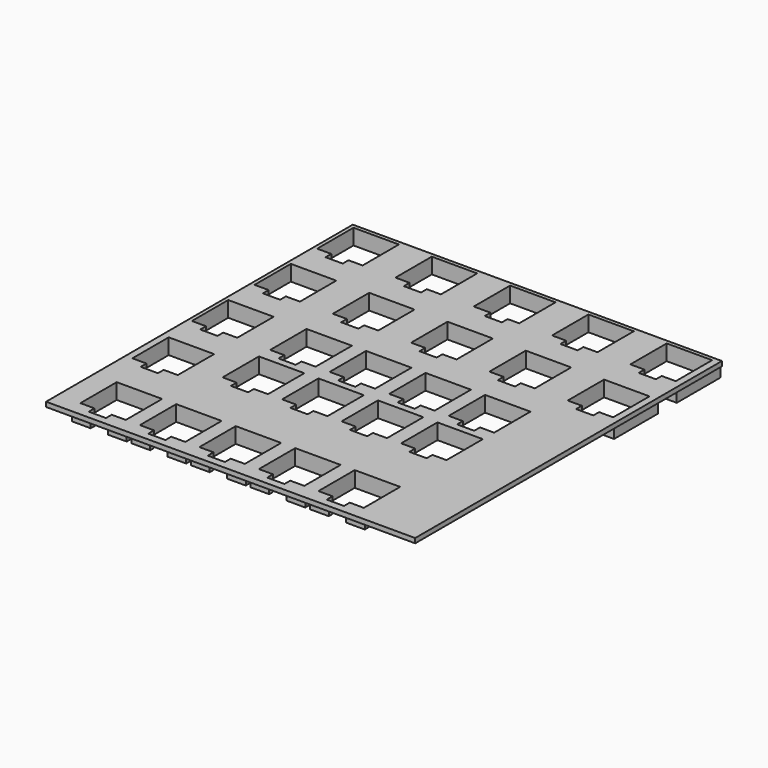
from build123d import *

# Parameters (mm, degrees)
SKETCH002_W     = 117.848
SKETCH002_H     = 122.417
PAD_DEPTH       = 1.5
SKETCH013_W     = 17.5
SKETCH013_H     = 17.5
PAD001_DEPTH    = 3.5
SKETCH008_W     = 14.5
SKETCH008_H     = 14.5
POCKET_DEPTH    = 5
SKETCH010_W     = 5.5
SKETCH010_H     = 5.5
POCKET001_DEPTH = 5


with BuildPart() as part:
    # Sketch002 → Pad (new body)
    with BuildSketch(Plane.XY):
        with Locations((210.076, -93.3415)):
            Rectangle(SKETCH002_W, SKETCH002_H)
    extrude(amount=PAD_DEPTH)

    # Sketch013 (on DatumPlane) → Pad001 (join)
    with BuildSketch(Plane(origin=(0, 0, 0), x_dir=(1, 0, 0), z_dir=(0, 0, -1))):
        with Locations((159.57, 40.57)):
            Rectangle(SKETCH013_W, SKETCH013_H)
        with Locations((184.57, 40.57)):
            Rectangle(SKETCH013_W, SKETCH013_H)
        with Locations((209.57, 40.57)):
            Rectangle(SKETCH013_W, SKETCH013_H)
        with Locations((234.57, 40.57)):
            Rectangle(SKETCH013_W, SKETCH013_H)
        with Locations((259.57, 40.57)):
            Rectangle(SKETCH013_W, SKETCH013_H)
        with Locations((159.57, 65.57)):
            Rectangle(SKETCH013_W, SKETCH013_H)
        with Locations((184.57, 65.57)):
            Rectangle(SKETCH013_W, SKETCH013_H)
        with Locations((209.57, 65.57)):
            Rectangle(SKETCH013_W, SKETCH013_H)
        with Locations((234.57, 65.57)):
            Rectangle(SKETCH013_W, SKETCH013_H)
        with Locations((259.57, 65.57)):
            Rectangle(SKETCH013_W, SKETCH013_H)
        with Locations((159.57, 90.57)):
            Rectangle(SKETCH013_W, SKETCH013_H)
        with Locations((184.57, 90.57)):
            Rectangle(SKETCH013_W, SKETCH013_H)
        with Locations((203.57, 90.57)):
            Rectangle(SKETCH013_W, SKETCH013_H)
        with Locations((222.57, 90.57)):
            Rectangle(SKETCH013_W, SKETCH013_H)
        with Locations((241.57, 90.57)):
            Rectangle(SKETCH013_W, SKETCH013_H)
        with Locations((160.57, 115.57)):
            Rectangle(SKETCH013_W, SKETCH013_H)
        with Locations((184.57, 109.57)):
            Rectangle(SKETCH013_W, SKETCH013_H)
        with Locations((203.57, 109.57)):
            Rectangle(SKETCH013_W, SKETCH013_H)
        with Locations((222.57, 109.57)):
            Rectangle(SKETCH013_W, SKETCH013_H)
        with Locations((241.57, 109.57)):
            Rectangle(SKETCH013_W, SKETCH013_H)
        with Locations((165.57, 142.57)):
            Rectangle(SKETCH013_W, SKETCH013_H)
        with Locations((184.57, 142.57)):
            Rectangle(SKETCH013_W, SKETCH013_H)
        with Locations((203.57, 142.57)):
            Rectangle(SKETCH013_W, SKETCH013_H)
        with Locations((222.57, 142.57)):
            Rectangle(SKETCH013_W, SKETCH013_H)
        with Locations((241.57, 142.57)):
            Rectangle(SKETCH013_W, SKETCH013_H)
    extrude(amount=PAD001_DEPTH)

    # Sketch008 (on DatumPlane) → Pocket (cut)
    with BuildSketch(Plane.XY.offset(1.5)):
        with Locations((159.57, -40.57)):
            Rectangle(SKETCH008_W, SKETCH008_H)
        with Locations((184.57, -40.57)):
            Rectangle(SKETCH008_W, SKETCH008_H)
        with Locations((209.57, -40.57)):
            Rectangle(SKETCH008_W, SKETCH008_H)
        with Locations((234.57, -40.57)):
            Rectangle(SKETCH008_W, SKETCH008_H)
        with Locations((259.57, -40.57)):
            Rectangle(SKETCH008_W, SKETCH008_H)
        with Locations((159.57, -65.57)):
            Rectangle(SKETCH008_W, SKETCH008_H)
        with Locations((184.57, -65.57)):
            Rectangle(SKETCH008_W, SKETCH008_H)
        with Locations((209.57, -65.57)):
            Rectangle(SKETCH008_W, SKETCH008_H)
        with Locations((234.57, -65.57)):
            Rectangle(SKETCH008_W, SKETCH008_H)
        with Locations((259.57, -65.57)):
            Rectangle(SKETCH008_W, SKETCH008_H)
        with Locations((159.57, -90.57)):
            Rectangle(SKETCH008_W, SKETCH008_H)
        with Locations((184.57, -90.57)):
            Rectangle(SKETCH008_W, SKETCH008_H)
        with Locations((203.57, -90.57)):
            Rectangle(SKETCH008_W, SKETCH008_H)
        with Locations((222.57, -90.57)):
            Rectangle(SKETCH008_W, SKETCH008_H)
        with Locations((241.57, -90.57)):
            Rectangle(SKETCH008_W, SKETCH008_H)
        with Locations((160.57, -115.57)):
            Rectangle(SKETCH008_W, SKETCH008_H)
        with Locations((184.57, -109.57)):
            Rectangle(SKETCH008_W, SKETCH008_H)
        with Locations((203.57, -109.57)):
            Rectangle(SKETCH008_W, SKETCH008_H)
        with Locations((222.57, -109.57)):
            Rectangle(SKETCH008_W, SKETCH008_H)
        with Locations((241.57, -109.57)):
            Rectangle(SKETCH008_W, SKETCH008_H)
        with Locations((165.57, -142.57)):
            Rectangle(SKETCH008_W, SKETCH008_H)
        with Locations((184.57, -142.57)):
            Rectangle(SKETCH008_W, SKETCH008_H)
        with Locations((203.57, -142.57)):
            Rectangle(SKETCH008_W, SKETCH008_H)
        with Locations((222.57, -142.57)):
            Rectangle(SKETCH008_W, SKETCH008_H)
        with Locations((241.57, -142.57)):
            Rectangle(SKETCH008_W, SKETCH008_H)
    extrude(amount=-POCKET_DEPTH, mode=Mode.SUBTRACT)

    # Sketch010 (on DatumPlane) → Pocket001 (cut)
    with BuildSketch(Plane.XY.offset(1.5)):
        with Locations((159.57, -47.37)):
            Rectangle(SKETCH010_W, SKETCH010_H)
        with Locations((184.57, -47.37)):
            Rectangle(SKETCH010_W, SKETCH010_H)
        with Locations((210.4, -47.37)):
            Rectangle(SKETCH010_W, SKETCH010_H)
        with Locations((234.57, -47.37)):
            Rectangle(SKETCH010_W, SKETCH010_H)
        with Locations((259.57, -47.37)):
            Rectangle(SKETCH010_W, SKETCH010_H)
        with Locations((159.57, -72.37)):
            Rectangle(SKETCH010_W, SKETCH010_H)
        with Locations((184.57, -72.37)):
            Rectangle(SKETCH010_W, SKETCH010_H)
        with Locations((209.57, -72.37)):
            Rectangle(SKETCH010_W, SKETCH010_H)
        with Locations((234.57, -72.37)):
            Rectangle(SKETCH010_W, SKETCH010_H)
        with Locations((259.57, -72.37)):
            Rectangle(SKETCH010_W, SKETCH010_H)
        with Locations((159.57, -97.37)):
            Rectangle(SKETCH010_W, SKETCH010_H)
        with Locations((184.57, -97.37)):
            Rectangle(SKETCH010_W, SKETCH010_H)
        with Locations((203.57, -97.37)):
            Rectangle(SKETCH010_W, SKETCH010_H)
        with Locations((222.57, -97.37)):
            Rectangle(SKETCH010_W, SKETCH010_H)
        with Locations((241.57, -97.37)):
            Rectangle(SKETCH010_W, SKETCH010_H)
        with Locations((160.57, -122.37)):
            Rectangle(SKETCH010_W, SKETCH010_H)
        with Locations((184.57, -116.37)):
            Rectangle(SKETCH010_W, SKETCH010_H)
        with Locations((203.57, -116.37)):
            Rectangle(SKETCH010_W, SKETCH010_H)
        with Locations((222.57, -116.37)):
            Rectangle(SKETCH010_W, SKETCH010_H)
        with Locations((241.57, -116.37)):
            Rectangle(SKETCH010_W, SKETCH010_H)
        with Locations((165.57, -149.37)):
            Rectangle(SKETCH010_W, SKETCH010_H)
        with Locations((184.57, -149.37)):
            Rectangle(SKETCH010_W, SKETCH010_H)
        with Locations((203.57, -149.37)):
            Rectangle(SKETCH010_W, SKETCH010_H)
        with Locations((222.57, -149.37)):
            Rectangle(SKETCH010_W, SKETCH010_H)
        with Locations((241.57, -149.37)):
            Rectangle(SKETCH010_W, SKETCH010_H)
    extrude(amount=-POCKET001_DEPTH, mode=Mode.SUBTRACT)


solid = part.part
